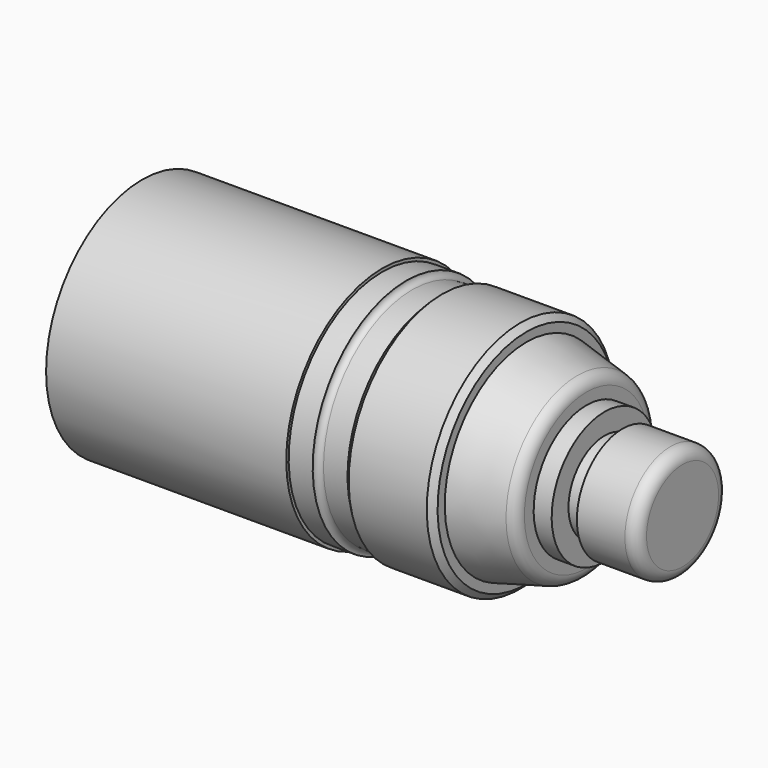
from build123d import *


with BuildPart() as f1:
    # F0 (on Front) → F1 (revolve)
    with BuildSketch(Plane.XZ):
        with BuildLine():
            Line((-80.112353, 20), (-80.112353, 0))
            Line((-80.112353, 0), (9.887647, 0))
            Line((9.887647, 0), (9.887647, 7.5))
            ThreePointArc((9.887647, 7.5), (9.30186, 8.914214), (7.887647, 9.5))
            Line((7.887647, 9.5), (-0.112353, 9.5))
            Line((-0.112353, 9.5), (-0.112353, 7.5))
            Line((-0.112353, 7.5), (-3.112353, 7.5))
            Line((-3.112353, 7.5), (-3.112353, 11))
            Line((-3.112353, 11), (-6.112353, 11))
            Line((-6.112353, 11), (-6.112353, 12.335))
            Line((-6.112353, 12.335), (-6.112353, 12.923899))
            ThreePointArc((-6.112353, 12.923899), (-6.534951, 14.153452), (-7.624154, 14.863399))
            Line((-7.624154, 14.863399), (-16.112353, 17))
            Line((-16.112353, 17), (-16.112353, 18.5))
            Line((-16.112353, 18.5), (-17.112353, 19.5))
            Line((-17.112353, 19.5), (-30.112353, 19.5))
            Line((-30.112353, 19.5), (-31.112353, 18.5))
            Line((-31.112353, 18.5), (-35.112353, 18.5))
            ThreePointArc((-35.112353, 18.5), (-35.81946, 18.792893), (-36.112353, 19.5))
            Line((-36.112353, 19.5), (-40.112353, 19.5))
            Line((-40.112353, 19.5), (-40.112353, 20))
            Line((-40.112353, 20), (-80.112353, 20))
        make_face()
    revolve(axis=Axis((-35.112353, 0, 0), (1, 0, 0)))


solid = f1.part
